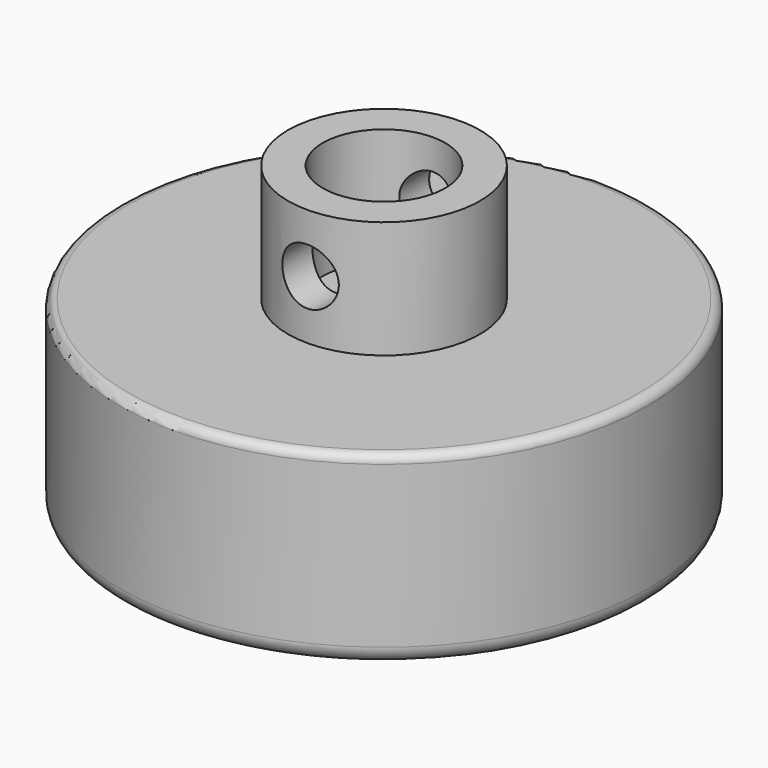
from build123d import *

# Parameters (mm, degrees)
F2_R     = 6.5
F3_DEPTH = 30


with BuildPart() as f1:
    # F0 (on Front) → F1 (revolve)
    with BuildSketch(Plane.XZ):
        with BuildLine():
            Line((-14.1, 0), (-14.1, 27))
            Line((-14.1, 27), (-22.1, 27))
            Line((-22.1, 27), (-22.1, 0))
            Line((-22.1, 0), (-58.77316, 0))
            ThreePointArc((-58.77316, 0), (-60.170035, -0.568658), (-60.772566, -1.95126))
            Line((-60.772566, -1.95126), (-60.772566, -2.403001))
            Line((-60.772566, -2.403001), (-60.772566, -39))
            ThreePointArc((-60.772566, -39), (-59.600994, -41.828427), (-56.772566, -43))
            Line((-56.772566, -43), (-56.4, -43))
            Line((-56.4, -43), (0, -43))
            Line((0, -43), (0, 0))
            Line((0, 0), (-14.1, 0))
        make_face()
        with BuildLine():
            Line((-14.1, 0), (-14.1, 27))
            Line((-14.1, 27), (-22.1, 27))
            Line((-22.1, 27), (-22.1, 0))
            Line((-22.1, 0), (-58.77316, 0))
            ThreePointArc((-58.77316, 0), (-60.170035, -0.568658), (-60.772566, -1.95126))
            Line((-60.772566, -1.95126), (-60.772566, -2.403001))
            Line((-60.772566, -2.403001), (-60.772566, -39))
            ThreePointArc((-60.772566, -39), (-59.600994, -41.828427), (-56.772566, -43))
            Line((-56.772566, -43), (-56.4, -43))
            Line((-56.4, -43), (0, -43))
            Line((0, -43), (0, 0))
            Line((0, 0), (-14.1, 0))
        make_face()
    revolve(axis=Axis((0, 0, -21.5), (0, 0, -1)))

    # F2 (on Front) → F3 (cut, symmetric)
    with BuildSketch(Plane.XZ):
        with Locations((0, 13.5)):
            Circle(F2_R)
    extrude(amount=F3_DEPTH, both=True, mode=Mode.SUBTRACT)


solid = f1.part
